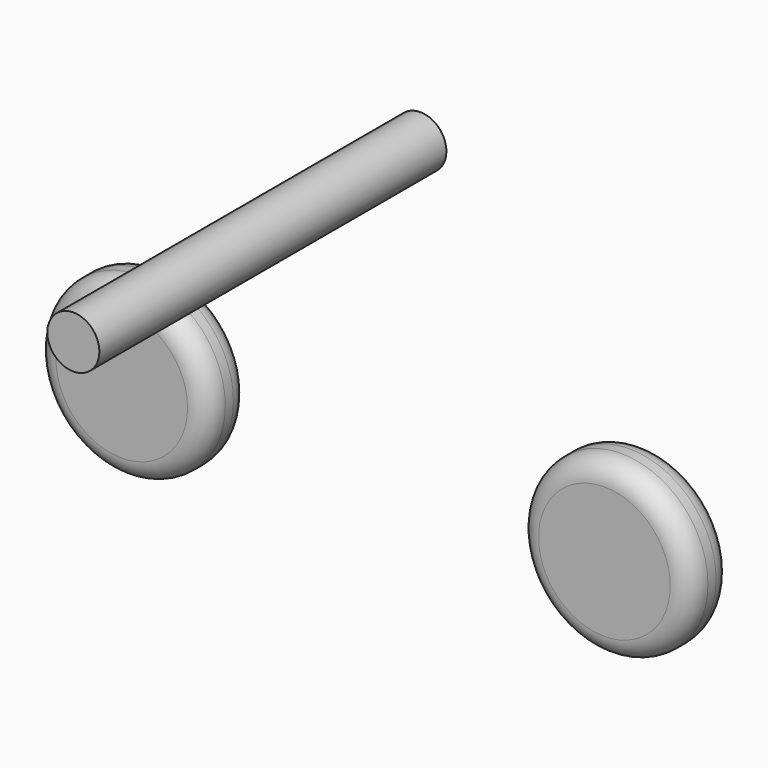
from build123d import *

# Parameters (mm, degrees)
F0_R      = 12.7
F1_DEPTH  = 7.62
F2_R      = 3.0660512242
F2_2_R    = 3.0660512242
F3_R      = 4.445
F4_DEPTH  = 3.556
F5_R      = 3.81
F6_DEPTH  = 5.08
F7_R      = 3.81
F8_DEPTH  = 5.08
F9_R      = 3.81
F10_DEPTH = 63.5


with BuildPart() as f1:
    # F0 (on Front) → F1 (new body)
    with BuildSketch(Plane.XZ):
        with Locations((-37.6150906086, 0)):
            Circle(F0_R)
    extrude(amount=F1_DEPTH)

    # F2#2
    f2_2_edges = [f1.edges().sort_by_distance(p)[0] for p in [
        (-50.315091, 0, 0),
        (-50.315091, -7.62, 0),
    ]]
    fillet(f2_2_edges, radius=F2_2_R)

    # F3 (on face) → F4 (cut)
    with BuildSketch(Plane.XZ.offset(7.62)):
        with Locations((-37.6150906086, 0)):
            Circle(F3_R)
        with Locations((33.1243872643, 0)):
            Circle(F3_R)
    extrude(amount=F4_DEPTH, mode=Mode.SUBTRACT)

    # F5 (on face) → F6 (cut)
    with BuildSketch(Plane(origin=(0, 0, 0), x_dir=(-1, 0, 0), z_dir=(0, 1, 0))):
        with Locations((37.6150906086, 0)):
            Circle(F5_R)
    extrude(amount=-F6_DEPTH, mode=Mode.SUBTRACT)


with BuildPart() as f1b:
    # F0 (on Front) → F1, piece 2 (new body)
    with BuildSketch(Plane.XZ):
        with Locations((33.0430902541, 0)):
            Circle(F0_R)
    extrude(amount=F1_DEPTH)

    # F2
    f2_edges = [f1b.edges().sort_by_distance(p)[0] for p in [
        (20.34309, -7.62, 0),
        (20.34309, 0, 0),
    ]]
    fillet(f2_edges, radius=F2_R)

    # F7 (on face) → F8 (cut)
    with BuildSketch(Plane(origin=(0, 0, 0), x_dir=(-1, 0, 0), z_dir=(0, 1, 0))):
        with Locations((-33.0430902541, 0)):
            Circle(F7_R)
    extrude(amount=-F8_DEPTH, mode=Mode.SUBTRACT)


with BuildPart() as f10:
    # F9 (on Front) → F10 (new body)
    with BuildSketch(Plane.XZ):
        with Locations((0, 40.2807854116)):
            Circle(F9_R)
    extrude(amount=F10_DEPTH)


solid = Compound([f1.part, f1b.part, f10.part])
